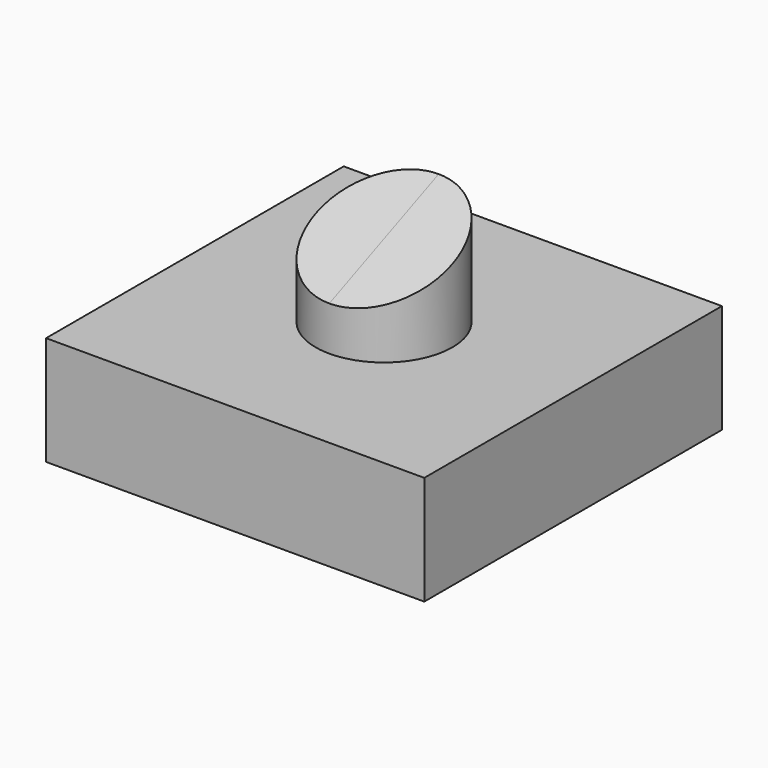
from build123d import *

# Parameters (mm, degrees)
F0_W     = 59.06649
F0_H     = 58.101352
F1_DEPTH = 17.018
F2_R     = 10.676277
F3_DEPTH = 16.002
F5_DEPTH = 29.534245
F6_DEPTH = 29.534245


with BuildPart() as f1:
    # F0 (on Top) → F1 (new body)
    with BuildSketch(Plane.XY):
        Rectangle(F0_W, F0_H)
    extrude(amount=F1_DEPTH)

    # F2 (on face) → F3 (join)
    with BuildSketch(Plane.XY.offset(17.018)):
        Circle(F2_R)
    extrude(amount=F3_DEPTH)

    # F4 (on Right) → F5 (cut, through all)
    with BuildSketch(Plane.YZ):
        Polygon((-10.705338, 23.905559), (10.682108, 33.037279), (-10.705338, 33.037279), align=None)
    extrude(amount=-F5_DEPTH, mode=Mode.SUBTRACT)

    # F5_face (on face) → F6 (cut, through all)
    with BuildSketch(Plane(origin=(0, -3.570305, 29.985989), x_dir=(0, 1, 0), z_dir=(-1, 0, 0))):
        Polygon((-7.105972, 6.068022), (-7.105972, -3.034011), (14.211944, -3.034011), align=None)
    extrude(amount=-F6_DEPTH, mode=Mode.SUBTRACT)


solid = f1.part
